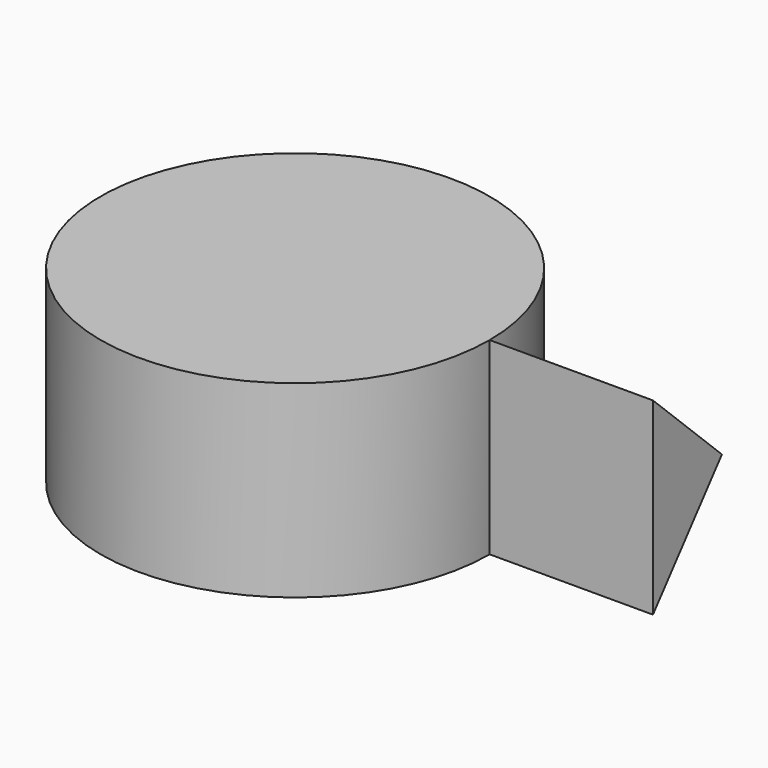
from build123d import *

# Parameters (mm, degrees)
F1_DEPTH = 50.8
F2_W     = 60.4987889528
F2_H     = 58.6740039289


with BuildPart() as f1:
    # F0 (on Right) → F1 (new body)
    with BuildSketch(Plane.YZ):
        Polygon((-26.810368523, -32.9865813255), (0, 0), (-26.810368523, 25.6874226034), align=None)
    extrude(amount=F1_DEPTH)


with BuildPart() as f3:
    # F2 (on face) → F3 (revolve)
    with BuildSketch(Plane.XZ.offset(26.810368523)):
        with Locations((-30.2493944764, -3.6495793611)):
            Rectangle(F2_W, F2_H)
    revolve(axis=Axis((-60.4987889528, -26.810368523, -3.6495793611), (0, 0, 1)))


solid = Compound([f1.part, f3.part])
